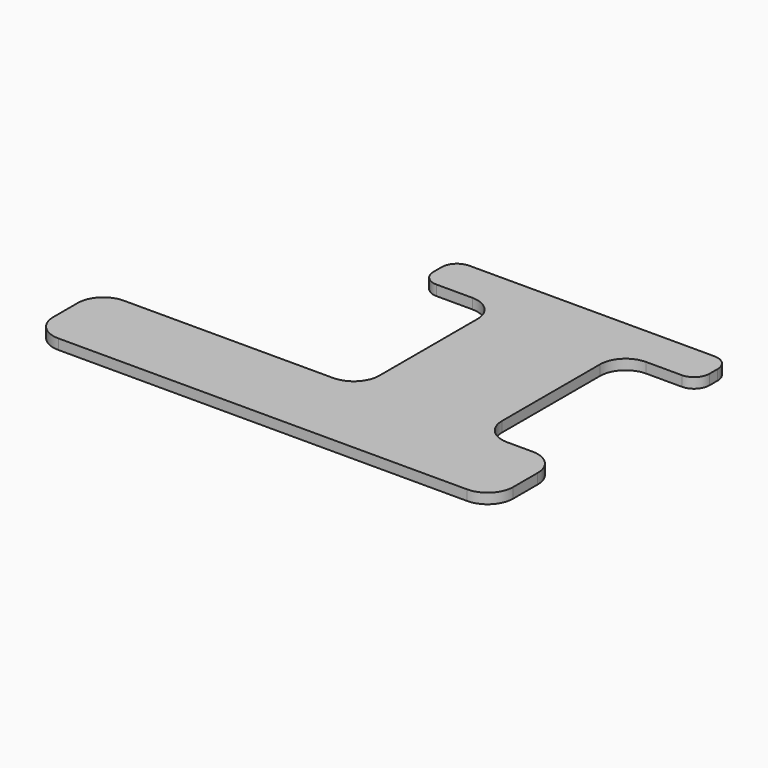
from build123d import *

# Parameters (mm, degrees)
F1_DEPTH = 10


with BuildPart() as f1:
    # F0 (on Top) → F1 (new body)
    with BuildSketch(Plane.XY):
        with BuildLine():
            Line((-70, 40), (-120, 40))
            Line((-120, 40), (-275, 40))
            ThreePointArc((-275, 40), (-292.67767, 32.67767), (-300, 15))
            Line((-300, 15), (-300, 0))
            Line((-300, 0), (-300, -15))
            ThreePointArc((-300, -15), (-292.67767, -32.67767), (-275, -40))
            Line((-275, -40), (125, -40))
            ThreePointArc((125, -40), (142.67767, -32.67767), (150, -15))
            Line((150, -15), (150, 15))
            ThreePointArc((150, 15), (142.67767, 32.67767), (125, 40))
            Line((125, 40), (100, 40))
            ThreePointArc((100, 40), (82.32233, 47.32233), (75, 65))
            Line((75, 65), (75, 185))
            ThreePointArc((75, 185), (82.32233, 202.67767), (100, 210))
            Line((100, 210), (135, 210))
            ThreePointArc((135, 210), (145.606602, 214.393398), (150, 225))
            Line((150, 225), (150, 235))
            ThreePointArc((150, 235), (145.606602, 245.606602), (135, 250))
            Line((135, 250), (-105, 250))
            ThreePointArc((-105, 250), (-115.606602, 245.606602), (-120, 235))
            Line((-120, 235), (-120, 225))
            ThreePointArc((-120, 225), (-115.606602, 214.393398), (-105, 210))
            Line((-105, 210), (-70, 210))
            ThreePointArc((-70, 210), (-52.32233, 202.67767), (-45, 185))
            Line((-45, 185), (-45, 65))
            ThreePointArc((-45, 65), (-52.32233, 47.32233), (-70, 40))
        make_face()
    extrude(amount=-F1_DEPTH)


solid = f1.part
